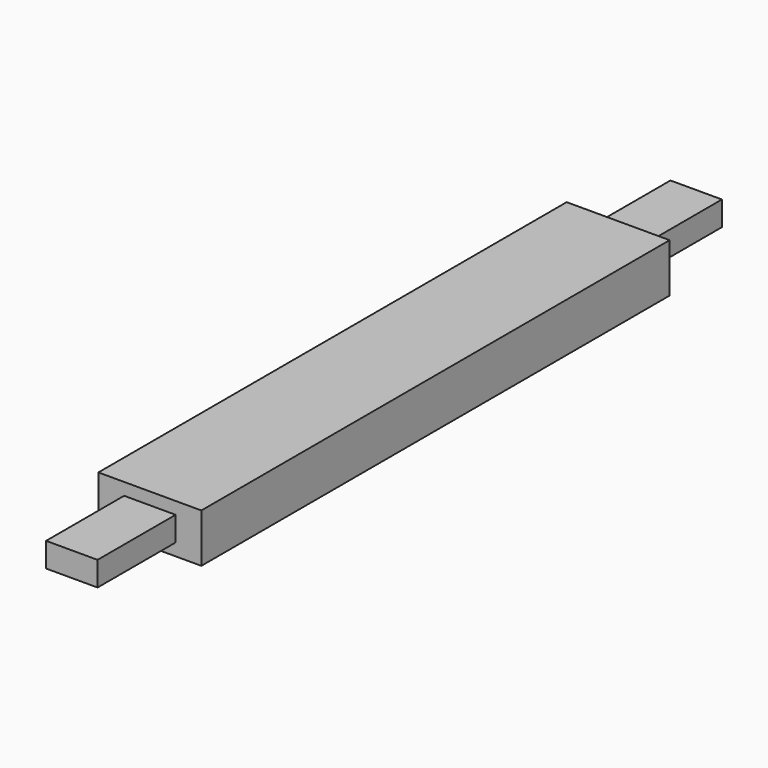
from build123d import *

# Parameters (mm, degrees)
SKETCH004_W     = 95
SKETCH004_H     = 720
PAD002_DEPTH    = 45
SKETCH014_W     = 95
SKETCH014_H     = 90
POCKET008_DEPTH = 11.25
SKETCH015_W     = 95
SKETCH015_H     = 90
POCKET009_DEPTH = 11.25
SKETCH016_W     = 23.75
SKETCH016_H     = 90
POCKET010_DEPTH = 11.25
SKETCH017_W     = 23.75
SKETCH017_H     = 90
POCKET011_DEPTH = 11.25
SKETCH018_W     = 23.75
SKETCH018_H     = 90
POCKET012_DEPTH = 11.25
SKETCH019_W     = 23.75
SKETCH019_H     = 90
POCKET013_DEPTH = 11.25


with BuildPart() as part:
    # Sketch004 → Pad002 (new body)
    with BuildSketch(Plane.XY):
        with Locations((47.5, 360)):
            Rectangle(SKETCH004_W, SKETCH004_H)
    extrude(amount=-PAD002_DEPTH)

    # Sketch014 (on Face5 of Pad002) → Pocket008 (cut)
    with BuildSketch(Plane.XY):
        with Locations((47.5, 45)):
            Rectangle(SKETCH014_W, SKETCH014_H)
        with Locations((47.5, 675)):
            Rectangle(SKETCH014_W, SKETCH014_H)
    extrude(amount=-POCKET008_DEPTH, mode=Mode.SUBTRACT)

    # Sketch015 (on Face4 of Pocket008) → Pocket009 (cut)
    with BuildSketch(Plane(origin=(0, 0, -45), x_dir=(1, 0, 0), z_dir=(0, 0, -1))):
        with Locations((47.5, -45)):
            Rectangle(SKETCH015_W, SKETCH015_H)
        with Locations((47.5, -675)):
            Rectangle(SKETCH015_W, SKETCH015_H)
    extrude(amount=-POCKET009_DEPTH, mode=Mode.SUBTRACT)

    # Sketch016 (on Face9 of Pocket009) → Pocket010 (cut)
    with BuildSketch(Plane.XY.offset(-11.25)):
        with Locations((11.875, 45)):
            Rectangle(SKETCH016_W, SKETCH016_H)
        with Locations((83.125, 45)):
            Rectangle(SKETCH016_W, SKETCH016_H)
    extrude(amount=-POCKET010_DEPTH, mode=Mode.SUBTRACT)

    # Sketch017 (on Face11 of Pocket010) → Pocket011 (cut)
    with BuildSketch(Plane(origin=(0, 0, -33.75), x_dir=(1, 0, 0), z_dir=(0, 0, -1))):
        with Locations((83.125, -45)):
            Rectangle(SKETCH017_W, SKETCH017_H)
        with Locations((11.875, -45)):
            Rectangle(SKETCH017_W, SKETCH017_H)
    extrude(amount=-POCKET011_DEPTH, mode=Mode.SUBTRACT)

    # Sketch018 (on Face5 of Pocket011) → Pocket012 (cut)
    with BuildSketch(Plane.XY.offset(-11.25)):
        with Locations((83.125, 675)):
            Rectangle(SKETCH018_W, SKETCH018_H)
        with Locations((11.875, 675)):
            Rectangle(SKETCH018_W, SKETCH018_H)
    extrude(amount=-POCKET012_DEPTH, mode=Mode.SUBTRACT)

    # Sketch019 (on Face3 of Pocket012) → Pocket013 (cut)
    with BuildSketch(Plane(origin=(0, 0, -33.75), x_dir=(1, 0, 0), z_dir=(0, 0, -1))):
        with Locations((11.875, -675)):
            Rectangle(SKETCH019_W, SKETCH019_H)
        with Locations((83.125, -675)):
            Rectangle(SKETCH019_W, SKETCH019_H)
    extrude(amount=-POCKET013_DEPTH, mode=Mode.SUBTRACT)


solid = part.part
